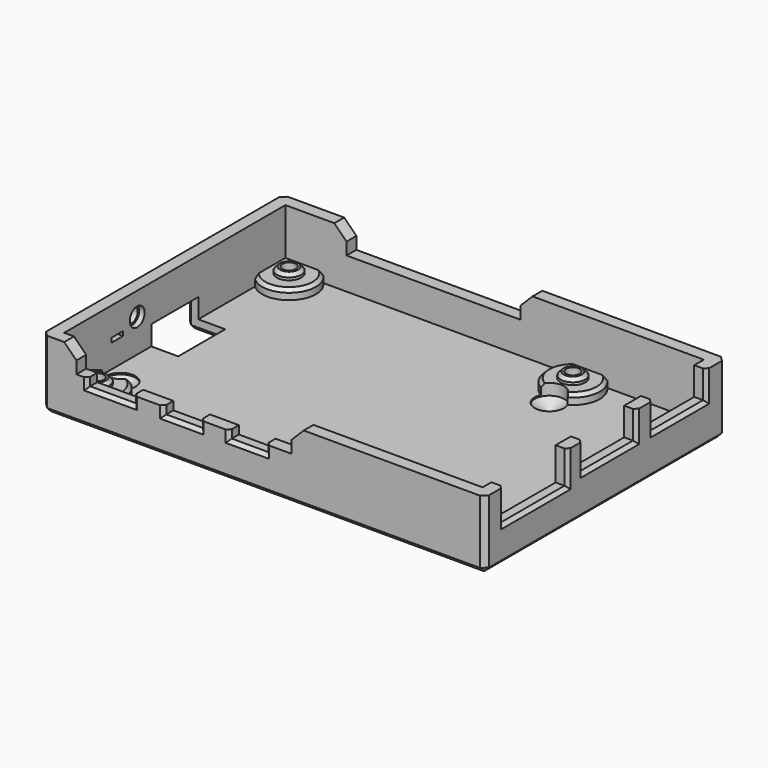
from build123d import *

# Parameters (mm, degrees)
SKETCH043_W     = 90.5
SKETCH043_H     = 61.5
PAD022_DEPTH    = 9
SKETCH_W        = 85.5
SKETCH_H        = 56.5
POCKET_DEPTH    = 6.5
PAD_DEPTH       = 5
CHAMFER_SIZE    = 2.49
SKETCH046_W     = 9.4
SKETCH046_H     = 3.4
SKETCH046_W_2   = 7.5
POCKET001_DEPTH = 2.5
CHAMFER002_SIZE = 0.7
SKETCH047_W     = 13.6
SKETCH047_H     = 14.7
SKETCH047_W_2   = 16.4
SKETCH047_H_2   = 13.5
POCKET002_DEPTH = 2.5
CHAMFER003_SIZE = 0.7
SKETCH048_W     = 12
SKETCH048_H     = 6.5
POCKET003_DEPTH = 8
SKETCH049_W     = 3
SKETCH049_H     = 0.9
POCKET004_DEPTH = 5
CHAMFER005_SIZE = 0.7
CHAMFER006_SIZE = 1
SKETCH050_R     = 5.5
PAD024_DEPTH    = 2
CHAMFER007_SIZE = 0.675
SKETCH051_R     = 2.5
PAD025_DEPTH    = 1.2
CHAMFER008_SIZE = 0.675
SKETCH052_R     = 1.4
POCKET005_DEPTH = 5.701
SKETCH053_R     = 2.5
POCKET006_DEPTH = 2
SKETCH097_R     = 1.9
POCKET023_DEPTH = 1.1
SKETCH098_R     = 1.5
POCKET024_DEPTH = 5
SKETCH103_R     = 3
HOLE001_DEPTH   = 3.5
HOLE001_TIPS_R  = 3


with BuildPart() as part:
    # Sketch043 → Pad022 (new body)
    with BuildSketch(Plane.XY):
        with Locations((45.25, 30.75)):
            Rectangle(SKETCH043_W, SKETCH043_H)
    extrude(amount=PAD022_DEPTH)

    # Sketch → Pocket (cut)
    with BuildSketch(Plane.XY.offset(9)):
        with Locations((45.25, 30.75)):
            Rectangle(SKETCH_W, SKETCH_H)
    extrude(amount=-POCKET_DEPTH, mode=Mode.SUBTRACT)

    # Sketch044 → Pad (join)
    with BuildSketch(Plane.XY.offset(9)):
        Polygon((15, 61.5), (0, 61.5), (0, 0), (7, 0), (7, 2.5), (2.5, 2.5), (2.5, 59), (15, 59), align=None)
        Polygon((50.5, 61.5), (90.5, 61.5), (90.5, 0), (50.95, 0), (50.95, 2.5), (88, 2.5), (88, 59), (50.5, 59), align=None)
    extrude(amount=PAD_DEPTH)

    # Chamfer
    chamfer_edges = [part.edges().sort_by_distance(p)[0] for p in [
        (7, 1.25, 14),
        (15, 60.25, 14),
        (50.5, 60.25, 14),
        (50.95, 1.25, 14),
    ]]
    chamfer(chamfer_edges, length=CHAMFER_SIZE)

    # Sketch046 → Pocket001 (cut)
    with BuildSketch(Plane.XZ):
        with Locations((13.95, 9)):
            Rectangle(SKETCH046_W, SKETCH046_H)
        with Locations((28.55, 9)):
            Rectangle(SKETCH046_W_2, SKETCH046_H)
        with Locations((41.95, 9)):
            Rectangle(SKETCH046_W_2, SKETCH046_H)
    extrude(amount=-POCKET001_DEPTH, mode=Mode.SUBTRACT)

    # Chamfer002
    chamfer002_edges = [part.edges().sort_by_distance(p)[0] for p in [
        (9.25, 0, 8.15),
        (13.95, 0, 7.3),
        (18.65, 0, 8.15),
        (24.8, 0, 8.15),
        (28.55, 0, 7.3),
        (32.3, 0, 8.15),
        (38.2, 0, 8.15),
        (41.95, 0, 7.3),
        (45.7, 0, 8.15),
    ]]
    chamfer(chamfer002_edges, length=CHAMFER002_SIZE)

    # Sketch047 → Pocket002 (cut)
    with BuildSketch(Plane.YZ.offset(90.5)):
        with Locations((49.75, 15.65)):
            Rectangle(SKETCH047_W, SKETCH047_H)
        with Locations((31.85, 15.65)):
            Rectangle(SKETCH047_W, SKETCH047_H)
        with Locations((12.95, 14.05)):
            Rectangle(SKETCH047_W_2, SKETCH047_H_2)
    extrude(amount=-POCKET002_DEPTH, mode=Mode.SUBTRACT)

    # Chamfer003
    chamfer003_edges = [part.edges().sort_by_distance(p)[0] for p in [
        (90.5, 4.75, 8.15),
        (90.5, 12.95, 7.3),
        (90.5, 21.15, 8.15),
        (90.5, 25.05, 8.65),
        (90.5, 31.85, 8.3),
        (90.5, 38.65, 8.65),
        (90.5, 42.95, 8.65),
        (90.5, 49.75, 8.3),
        (90.5, 56.55, 8.65),
    ]]
    chamfer(chamfer003_edges, length=CHAMFER003_SIZE)

    # Sketch048 → Pocket003 (cut)
    with BuildSketch(Plane.YZ):
        with Locations((30.75, 3.25)):
            Rectangle(SKETCH048_W, SKETCH048_H)
    extrude(amount=POCKET003_DEPTH, mode=Mode.SUBTRACT)

    # Sketch049 → Pocket004 (cut)
    with BuildSketch(Plane.YZ):
        with Locations((16.05, 7.75)):
            Rectangle(SKETCH049_W, SKETCH049_H)
    extrude(amount=POCKET004_DEPTH, mode=Mode.SUBTRACT)

    # Chamfer005
    chamfer005_edges = [part.edges().sort_by_distance(p)[0] for p in [
        (0, 16.05, 7.3),
        (0, 14.55, 7.75),
        (0, 17.55, 7.75),
        (0, 16.05, 8.2),
    ]]
    chamfer(chamfer005_edges, length=CHAMFER005_SIZE)

    # Chamfer006
    chamfer006_edges = [part.edges().sort_by_distance(p)[0] for p in [
        (45.25, 0, 0),
        (0, 49.125, 0),
        (0, 12.375, 0),
        (0, 30.75, 6.5),
        (0, 24.75, 3.25),
        (0, 36.75, 3.25),
        (90.5, 30.75, 0),
        (0, 61.5, 4.5),
        (90.5, 0, 4.5),
        (0, 0, 4.5),
        (4, 36.75, 0),
        (8, 30.75, 0),
        (4, 24.75, 0),
        (45.25, 61.5, 0),
        (90.5, 61.5, 4.5),
    ]]
    chamfer(chamfer006_edges, length=CHAMFER006_SIZE)

    # Sketch050 → Pad024 (join)
    with BuildSketch(Plane.XY.offset(2.5)):
        with Locations((6.25, 55.25)):
            Circle(SKETCH050_R)
        with Locations((6.25, 6.25)):
            Circle(SKETCH050_R)
        with Locations((64.25, 55.25)):
            Circle(SKETCH050_R)
        with Locations((64.25, 6.25)):
            Circle(SKETCH050_R)
    extrude(amount=PAD024_DEPTH)

    # Chamfer007
    chamfer007_edges = [part.edges().sort_by_distance(p)[0] for p in [
        (62.234874, 50.132455, 4.5),
        (62.234874, 11.367545, 4.5),
        (8.443741, 11.29356, 4.5),
        (8.443741, 50.20644, 4.5),
    ]]
    chamfer(chamfer007_edges, length=CHAMFER007_SIZE)

    # Sketch051 → Pad025 (join)
    with BuildSketch(Plane.XY.offset(4.5)):
        with Locations((6.25, 55.25)):
            Circle(SKETCH051_R)
        with Locations((6.25, 6.25)):
            Circle(SKETCH051_R)
        with Locations((64.25, 55.25)):
            Circle(SKETCH051_R)
        with Locations((64.25, 6.25)):
            Circle(SKETCH051_R)
    extrude(amount=PAD025_DEPTH)

    # Chamfer008
    chamfer008_edges = [part.edges().sort_by_distance(p)[0] for p in [
        (3.75, 6.25, 5.7),
        (3.75, 55.25, 5.7),
        (61.75, 55.25, 5.7),
        (61.75, 6.25, 5.7),
    ]]
    chamfer(chamfer008_edges, length=CHAMFER008_SIZE)

    # Sketch052 → Pocket005 (cut, through all)
    with BuildSketch(Plane.XY.offset(5.7)):
        with Locations((6.25, 55.25)):
            Circle(SKETCH052_R)
        with Locations((6.25, 6.25)):
            Circle(SKETCH052_R)
        with Locations((64.25, 55.25)):
            Circle(SKETCH052_R)
        with Locations((64.25, 6.25)):
            Circle(SKETCH052_R)
    extrude(amount=-POCKET005_DEPTH, mode=Mode.SUBTRACT)

    # Sketch053 → Pocket006 (cut)
    with BuildSketch(Plane.XY):
        with Locations((6.25, 55.25)):
            Circle(SKETCH053_R)
        with Locations((6.25, 6.25)):
            Circle(SKETCH053_R)
        with Locations((64.25, 55.25)):
            Circle(SKETCH053_R)
        with Locations((64.25, 6.25)):
            Circle(SKETCH053_R)
    extrude(amount=POCKET006_DEPTH, mode=Mode.SUBTRACT)

    # Sketch097 → Pocket023 (cut)
    with BuildSketch(Plane.YZ.offset(2.5)):
        with Locations((21.15, 9.3)):
            Circle(SKETCH097_R)
    extrude(amount=-POCKET023_DEPTH, mode=Mode.SUBTRACT)

    # Sketch098 → Pocket024 (cut)
    with BuildSketch(Plane.YZ):
        with Locations((21.15, 9.3)):
            Circle(SKETCH098_R)
    extrude(amount=POCKET024_DEPTH, mode=Mode.SUBTRACT)

    # Sketch103 → Hole001 (cut)
    with BuildSketch(Plane.XY.offset(5.7)):
        with Locations((6.25, 12.25)):
            Circle(SKETCH103_R)
        with Locations((64.25, 49.25)):
            Circle(SKETCH103_R)
    extrude(amount=-HOLE001_DEPTH, mode=Mode.SUBTRACT)

    # Hole001 tips → Hole001 tip 1 section 0
    with BuildSketch(Plane.XY.offset(2.2), mode=Mode.PRIVATE) as hole001_tip_1_s0:
        with Locations((6.25, 12.25)):
            Circle(HOLE001_TIPS_R)
    loft([hole001_tip_1_s0.sketch, Vertex(6.25, 12.25, 0.397418)], mode=Mode.SUBTRACT)

    # Hole001 tips → Hole001 tip 2 section 0
    with BuildSketch(Plane.XY.offset(2.2), mode=Mode.PRIVATE) as hole001_tip_2_s0:
        with Locations((64.25, 49.25)):
            Circle(HOLE001_TIPS_R)
    loft([hole001_tip_2_s0.sketch, Vertex(64.25, 49.25, 0.397418)], mode=Mode.SUBTRACT)


solid = part.part
